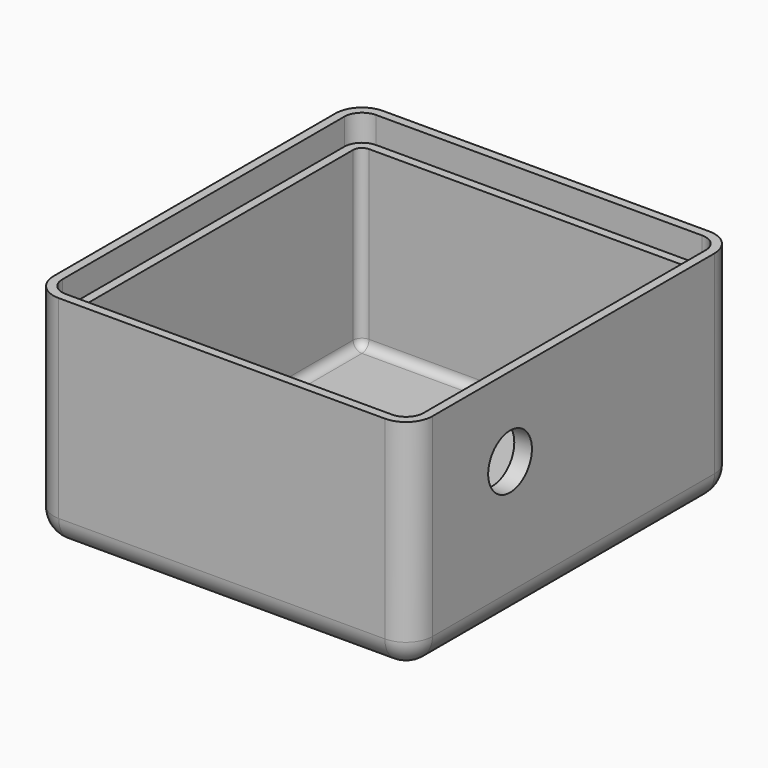
from build123d import *

# Parameters (mm, degrees)
F0_W      = 43
F0_H      = 46
F1_DEPTH  = 25
F2_R      = 3
F3_T      = -2
F4_R      = 8
F5_DEPTH  = 2
F6_R      = 3.1
F7_DEPTH  = 2
F8_R      = 1.75
F9_DEPTH  = 7.5
F11_R     = 0.9
F12_DEPTH = 7
F15_DEPTH = 3
F16_R     = 2.4
F17_DEPTH = 5


with BuildPart() as f1:
    # F0 (on Top) → F1 (new body)
    with BuildSketch(Plane.XY):
        Rectangle(F0_W, F0_H)
    extrude(amount=F1_DEPTH)

    # F2
    f2_edges = [f1.edges().sort_by_distance(p)[0] for p in [
        (21.5, 0, 0),
        (0, -23, 0),
        (0, 23, 0),
        (-21.5, 0, 0),
        (21.5, 23, 12.5),
        (21.5, -23, 12.5),
        (-21.5, -23, 12.5),
        (-21.5, 23, 12.5),
    ]]
    fillet(f2_edges, radius=F2_R)

    # F3
    f3_openings = [f1.faces().sort_by_distance(p)[0] for p in [
        (0, 0, 25),
    ]]
    offset(amount=F3_T, openings=f3_openings)

    # F4 (on face) → F5 (cut, through all)
    with BuildSketch(Plane.XY.offset(2)):
        Circle(F4_R)
    extrude(amount=-F5_DEPTH, mode=Mode.SUBTRACT)

    # F6 (on face) → F7 (cut, through all)
    with BuildSketch(Plane.YZ.offset(21.5)):
        with Locations((-9, 16)):
            Circle(F6_R)
    extrude(amount=-F7_DEPTH, mode=Mode.SUBTRACT)

    # F8 (on face) → F9 (join)
    with BuildSketch(Plane.XY.offset(2)):
        with Locations((17, 17)):
            Circle(F8_R)
        with Locations((17, -17)):
            Circle(F8_R)
        with Locations((-17, -17)):
            Circle(F8_R)
    extrude(amount=F9_DEPTH)

    # F11 (on offset) → F12 (cut)
    with BuildSketch(Plane.XY.offset(9.5)):
        with Locations((17, 17)):
            Circle(F11_R)
        with Locations((17, -17)):
            Circle(F11_R)
        with Locations((-17, -17)):
            Circle(F11_R)
    extrude(amount=-F12_DEPTH, mode=Mode.SUBTRACT)

    # F14 (on offset) → F15 (cut)
    with BuildSketch(Plane.XY.offset(25)):
        with BuildLine():
            Line((-18.5, -22), (18.5, -22))
            ThreePointArc((18.5, -22), (19.9142135624, -21.4142135624), (20.5, -20))
            Line((20.5, -20), (20.5, 20))
            ThreePointArc((20.5, 20), (19.9142135624, 21.4142135624), (18.5, 22))
            Line((18.5, 22), (-18.5, 22))
            ThreePointArc((-18.5, 22), (-19.9142135624, 21.4142135624), (-20.5, 20))
            Line((-20.5, 20), (-20.5, -20))
            ThreePointArc((-20.5, -20), (-19.9142135624, -21.4142135624), (-18.5, -22))
        make_face()
    extrude(amount=-F15_DEPTH, mode=Mode.SUBTRACT)

    # F16 (on face) → F17 (join)
    with BuildSketch(Plane.XY.offset(2)):
        with Locations((17, 17)):
            Circle(F16_R)
        with Locations((17, -17)):
            Circle(F16_R)
        with Locations((-17, -17)):
            Circle(F16_R)
    extrude(amount=F17_DEPTH)


solid = f1.part
